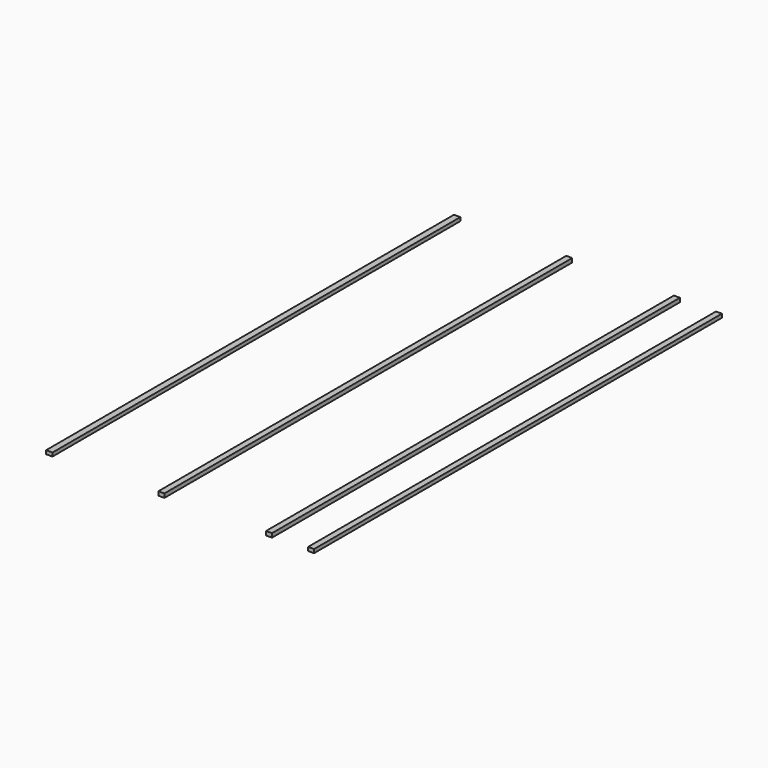
from build123d import *

# Parameters (mm, degrees)
F0_W     = 75
F0_H     = 6400
F1_DEPTH = 46
F2_DEPTH = 50
F3_DEPTH = 50
F0_W_2   = 80
F4_DEPTH = 45


with BuildPart() as f1:
    # F0 (on Top) → F1 (new body)
    with BuildSketch(Plane.XY):
        with Locations((1916.5, 3200)):
            Rectangle(F0_W, F0_H)
    extrude(amount=F1_DEPTH)


with BuildPart() as f2:
    # F0 (on Top) → F2 (new body)
    with BuildSketch(Plane.XY):
        with Locations((1388.5, 3200)):
            Rectangle(F0_W, F0_H)
    extrude(amount=F2_DEPTH)


with BuildPart() as f3:
    # F0 (on Top) → F3 (new body)
    with BuildSketch(Plane.XY):
        with Locations((37.5, 3200)):
            Rectangle(F0_W, F0_H)
    extrude(amount=F3_DEPTH)


with BuildPart() as f4:
    # F0 (on Top) → F4 (new body)
    with BuildSketch(Plane.XY):
        with Locations((-1370, 3200)):
            Rectangle(F0_W_2, F0_H)
    extrude(amount=F4_DEPTH)


solid = Compound([f1.part, f2.part, f3.part, f4.part])
